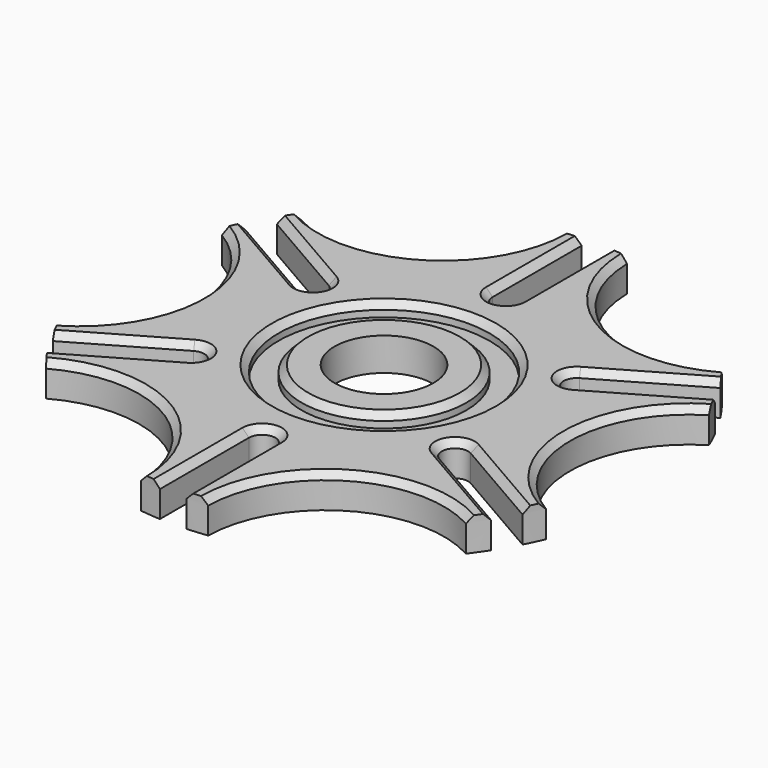
from build123d import *

# Parameters (mm, degrees)
SKETCH_R           = 40
PAD_DEPTH          = 5
SKETCH001_R        = 7.5
SKETCH001_R_2      = 18
POCKET_DEPTH       = 5
POLARPATTERN_COUNT = 6
SKETCH002_R        = 16
SKETCH002_R_2      = 12.5
POCKET001_DEPTH    = 2
CHAMFER_SIZE       = 1
CHAMFER001_SIZE    = 1


with BuildPart() as part:
    # Sketch → Pad (new body)
    with BuildSketch(Plane.XY):
        Circle(SKETCH_R)
    extrude(amount=-PAD_DEPTH)

    # Sketch001 → Pocket (cut)
    with BuildSketch(Plane.XY):
        Circle(SKETCH001_R)
        with Locations((46.188, 0)):
            Circle(SKETCH001_R_2)
        with BuildLine():
            ThreePointArc((-2, 23.09), (0, 21.09), (2, 23.09))
            Line((2, 23.09), (2, 43.09))
            ThreePointArc((2, 43.09), (0, 45.09), (-2, 43.09))
            Line((-2, 43.09), (-2, 23.09))
        make_face()
    pocket = extrude(amount=-POCKET_DEPTH, mode=Mode.SUBTRACT)

    # PolarPattern: Pocket ×6 about axis
    polarpattern_axis = Axis((0, 0, 0), (0, 0, 1))
    for i in range(1, POLARPATTERN_COUNT):
        add(pocket.rotate(polarpattern_axis, i * 360 / POLARPATTERN_COUNT), mode=Mode.SUBTRACT)

    # Sketch002 → Pocket001 (cut)
    with BuildSketch(Plane.XY):
        Circle(SKETCH002_R)
        Circle(SKETCH002_R_2, mode=Mode.SUBTRACT)
    extrude(amount=-POCKET001_DEPTH, mode=Mode.SUBTRACT)

    # Chamfer
    chamfer_edges = [part.edges().sort_by_distance(p)[0] for p in [
        (-16, 0, 0),
        (-12.5, 0, 0),
    ]]
    chamfer(chamfer_edges, length=CHAMFER_SIZE)

    # Chamfer001
    chamfer001_edges = [part.edges().sort_by_distance(p)[0] for p in [
        (-28.188, 0, 0),
        (-28.297107, -14.027941, 0),
        (-18.264476, -10.545, 0),
        (-26.297107, -17.492043, 0),
        (-14.094, -24.411524, 0),
        (-2, -31.519984, 0),
        (0, -21.09, 0),
        (2, -31.519984, 0),
        (14.094, -24.411524, 0),
        (26.297107, -17.492043, 0),
        (18.264476, -10.545, 0),
        (28.297107, -14.027941, 0),
        (28.188, 0, 0),
        (28.297107, 14.027941, 0),
        (18.264476, 10.545, 0),
        (26.297107, 17.492043, 0),
        (14.094, 24.411524, 0),
        (2, 31.519984, 0),
        (0, 21.09, 0),
        (-2, 31.519984, 0),
        (-14.094, 24.411524, 0),
        (-26.297107, 17.492043, 0),
        (-18.264476, 10.545, 0),
        (-28.297107, 14.027941, 0),
    ]]
    chamfer(chamfer001_edges, length=CHAMFER001_SIZE)


solid = part.part
